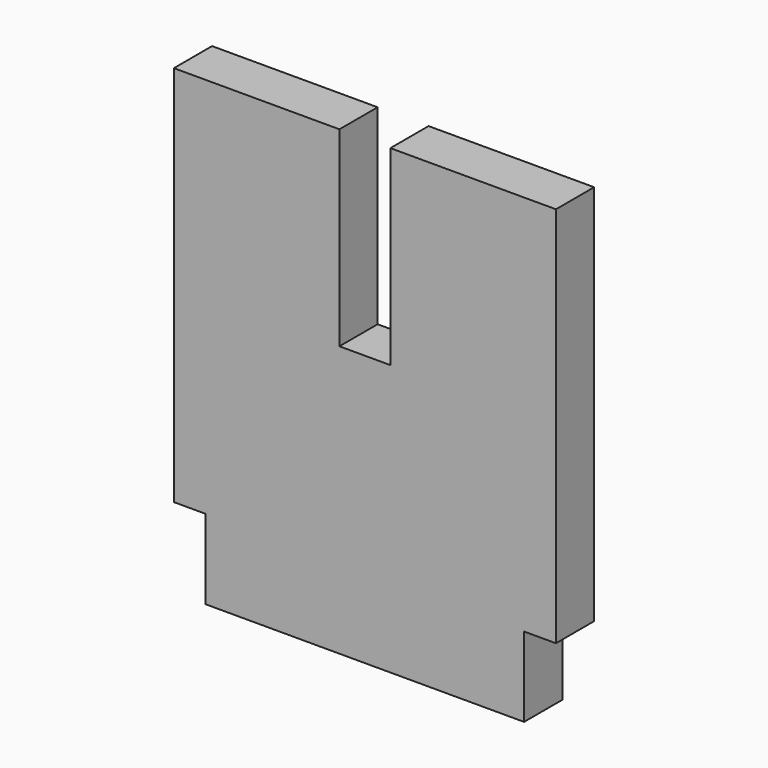
from build123d import *

# Parameters (mm, degrees)
F0_W     = 20
F0_H     = 5
F1_DEPTH = 3


with BuildPart() as f1:
    # F0 (on Front) → F1 (new body)
    with BuildSketch(Plane.XZ):
        Polygon((-12, 12), (-12, -12), (-10, -12), (10, -12), (12, -12), (12, 12), (1.6, 12), (1.6, 0), (-1.6, 0), (-1.6, 12), align=None)
        with Locations((0, -14.5)):
            Rectangle(F0_W, F0_H)
    extrude(amount=F1_DEPTH)


solid = f1.part
